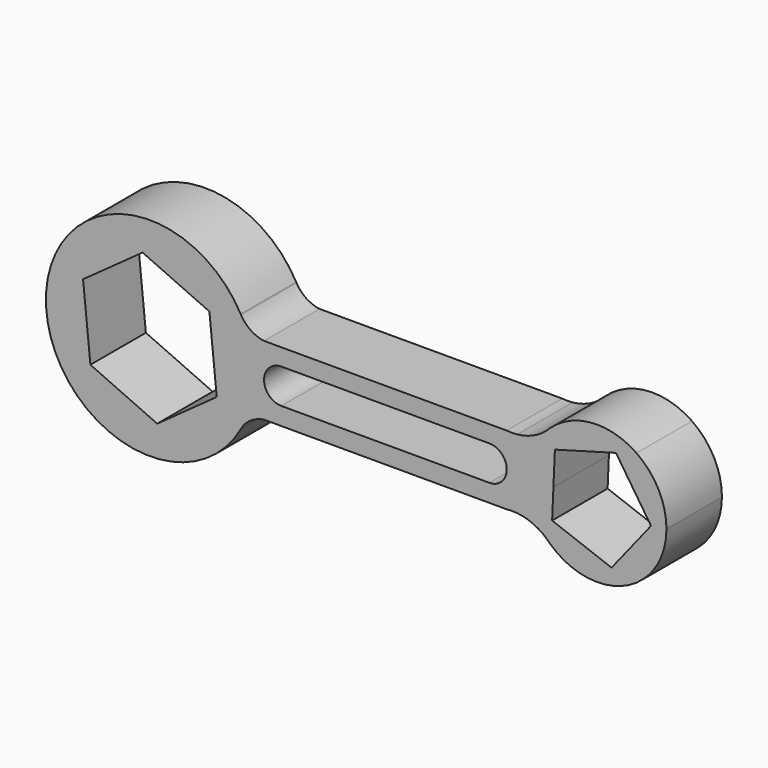
from build123d import *

# Parameters (mm, degrees)
F1_DEPTH = 20


with BuildPart() as f1:
    # F0 (on Front) → F1 (new body)
    with BuildSketch(Plane.XZ):
        with BuildLine():
            ThreePointArc((-18.656017, 14.463057), (-18.708848, 14.556927), (-18.760553, 14.651424))
            ThreePointArc((-18.760553, 14.651424), (-74.939471, 0), (-18.760553, -14.651424))
            ThreePointArc((-18.760553, -14.651424), (-18.708848, -14.556927), (-18.656017, -14.463057))
            ThreePointArc((-18.656017, -14.463057), (-15.883459, -7.46647), (-14.939471, 0))
            ThreePointArc((-14.939471, 0), (-15.883459, 7.46647), (-18.656017, 14.463057))
        make_face()
        Polygon((-51.569248, 17.787172), (-47.052302, 21.037134), (-30.079958, 13.386369), (-27.777194, 12.348333), (-26.537009, 0), (-25.664363, -8.688802), (-42.82664, -21.037134), (-62.101748, -12.348333), (-64.21458, 8.688802), align=None, mode=Mode.SUBTRACT)
        with BuildLine():
            ThreePointArc((70.44672, 14.651424), (70.040505, 14.235547), (69.618481, 13.835724))
            ThreePointArc((69.618481, 13.835724), (64.060529, 0), (69.618481, -13.835724))
            ThreePointArc((69.618481, -13.835724), (70.040505, -14.235547), (70.44672, -14.651424))
            ThreePointArc((70.44672, -14.651424), (92.051894, -18.334069), (104.060529, 0))
            ThreePointArc((104.060529, 0), (101.772313, 9.289387), (95.431258, 16.453161))
            ThreePointArc((95.431258, 16.453161), (82.621982, 19.948198), (70.44672, 14.651424))
        make_face()
        Polygon((89.50246, 14.579673), (91.770843, 11.156633), (99.608271, -0.670217), (88.227631, -14.99389), (71.088197, -8.596516), (71.458768, 0), (71.876085, 9.680951), align=None, mode=Mode.SUBTRACT)
        with BuildLine():
            ThreePointArc((-12.005609, 10), (-15.854632, 11.450985), (-18.656017, 14.463057))
            ThreePointArc((-18.656017, 14.463057), (-15.883459, 7.46647), (-14.939471, 0))
            ThreePointArc((-14.939471, 0), (-15.883459, -7.46647), (-18.656017, -14.463057))
            ThreePointArc((-18.656017, -14.463057), (-15.854632, -11.450985), (-12.005609, -10))
            Line((-12.005609, -10), (57.99466, -10))
            ThreePointArc((57.99466, -10), (59.515113, -9.922742), (61.035567, -10))
            ThreePointArc((61.035567, -10), (65.635285, -11.228089), (69.618481, -13.835724))
            ThreePointArc((69.618481, -13.835724), (64.060529, 0), (69.618481, 13.835724))
            ThreePointArc((69.618481, 13.835724), (65.635285, 11.228089), (61.035567, 10))
            ThreePointArc((61.035567, 10), (59.515113, 9.922742), (57.99466, 10))
            Line((57.99466, 10), (-12.005609, 10))
        make_face()
        with BuildLine():
            ThreePointArc((-7.005609, -4.890676), (-12.005609, 0.109324), (-7.005609, 5.109324))
            Line((-7.005609, 5.109324), (52.994391, 5.109324))
            ThreePointArc((52.994391, 5.109324), (57.994391, 0.109324), (52.994391, -4.890676))
            Line((52.994391, -4.890676), (-7.005609, -4.890676))
        make_face(mode=Mode.SUBTRACT)
    extrude(amount=F1_DEPTH)


solid = f1.part
